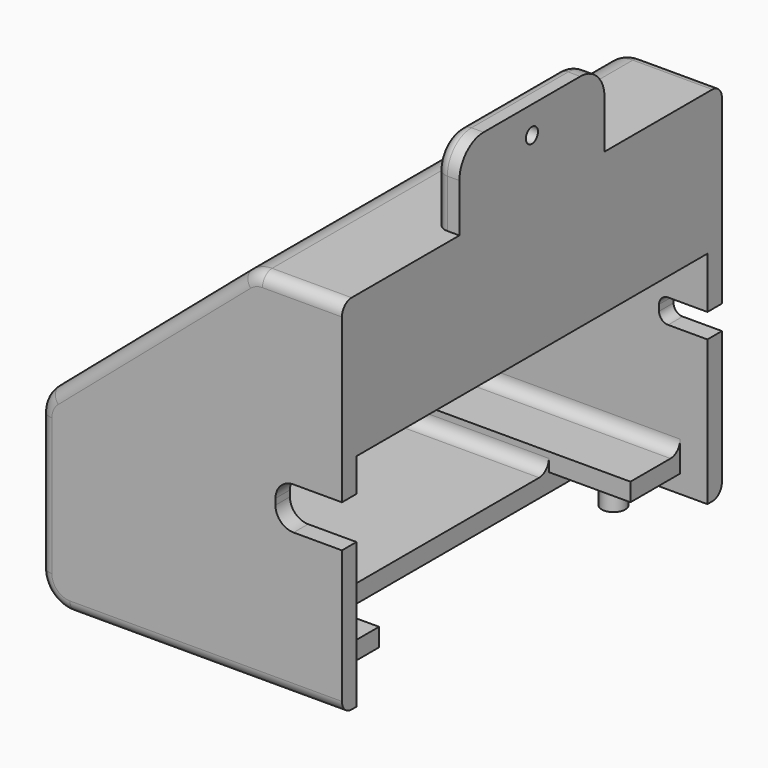
from build123d import *

# Parameters (mm, degrees)
F1_DEPTH  = 78.6
F4_DEPTH  = 72.6
F5_W      = 18
F5_H      = 72.6
F6_DEPTH  = 5
F8_DEPTH  = 5
F10_DEPTH = 5
F12_DEPTH = 13
F13_R     = 5
F14_R     = 2
F15_R     = 1.25
F16_DEPTH = 25
F17_W     = 10.3
F17_H     = 3
F18_DEPTH = 42.5
F20_R     = 1.95
F21_DEPTH = 4
F22_SIZE  = 2
F23_R     = 2


with BuildPart() as f1:
    # F0 (on Front) → F1 (new body)
    with BuildSketch(Plane.XZ):
        Polygon((-50, 0), (0, 0), (0, 60), (-15, 60), (-50, 30), align=None)
    extrude(amount=F1_DEPTH)

    # F3 (on offset) → F4 (cut)
    with BuildSketch(Plane.XZ.offset(3)):
        Polygon((-47, 3), (0, 3), (0, 36.5), (-3, 36.5), (-3, 57), (-13.8902277714, 57), (-47, 28.6201952326), align=None)
    extrude(amount=F4_DEPTH, mode=Mode.SUBTRACT)

    # F5 (on face) → F6 (cut)
    with BuildSketch(Plane(origin=(0, 0, 0), x_dir=(1, 0, 0), z_dir=(0, 0, -1))):
        with Locations((-9, 39.3)):
            Rectangle(F5_W, F5_H)
    extrude(amount=-F6_DEPTH, mode=Mode.SUBTRACT)

    # F7 (on Front) → F8 (cut)
    with BuildSketch(Plane.XZ):
        with BuildLine():
            Line((-6.5, 24), (0, 24))
            Line((0, 24), (0, 28))
            Line((0, 28), (-6.5, 28))
            ThreePointArc((-6.5, 28), (-7.5606601718, 27.5606601718), (-8, 26.5))
            Line((-8, 26.5), (-8, 25.5))
            ThreePointArc((-8, 25.5), (-7.5606601718, 24.4393398282), (-6.5, 24))
        make_face()
    extrude(amount=F8_DEPTH, mode=Mode.SUBTRACT)

    # F9 (on face) → F10 (cut)
    with BuildSketch(Plane.XZ.offset(78.6)):
        with BuildLine():
            Line((-8, 24), (0, 24))
            Line((0, 24), (0, 31))
            Line((0, 31), (-8, 31))
            ThreePointArc((-8, 31), (-10.1213203436, 30.1213203436), (-11, 28))
            Line((-11, 28), (-11, 27))
            ThreePointArc((-11, 27), (-10.1213203436, 24.8786796564), (-8, 24))
        make_face()
    extrude(amount=-F10_DEPTH, mode=Mode.SUBTRACT)

    # F11 (on face) → F12 (join)
    with BuildSketch(Plane.XY.offset(60)):
        Polygon((-4, -24.3), (-4, -39.3), (-4, -54.3), (0, -54.3), (0, -39.3), (0, -24.3), align=None)
    extrude(amount=F12_DEPTH)

    # F13
    f13_edges = [f1.edges().sort_by_distance(p)[0] for p in [
        (-2, -54.3, 73),
        (-2, -24.3, 73),
        (-15, -39.3, 60),
        (-50, -39.3, 30),
        (-50, -39.3, 0),
    ]]
    fillet(f13_edges, radius=F13_R)

    # F14
    f14_edges = [f1.edges().sort_by_distance(p)[0] for p in [
        (-4, -54.3, 64),
        (-32.329147, 0, 45.146446),
        (-32.329147, -78.6, 45.146446),
    ]]
    fillet(f14_edges, radius=F14_R)

    # F15 (on face) → F16 (cut)
    with BuildSketch(Plane.YZ):
        with Locations((-39.3, 68.5)):
            Circle(F15_R)
    extrude(amount=-F16_DEPTH, mode=Mode.SUBTRACT)

    # F17 (on face) → F18 (join)
    with BuildSketch(Plane.YZ.offset(-47)):
        with Locations((-8.15, 4.5)):
            Rectangle(F17_W, F17_H)
        with Locations((-70.45, 4.5)):
            Rectangle(F17_W, F17_H)
    extrude(amount=F18_DEPTH)

    # F20 (on offset) → F21 (join)
    with BuildSketch(Plane.XY.offset(3)):
        with Locations((-10.5, -9.3)):
            Circle(F20_R)
        with Locations((-10.5, -69.3)):
            Circle(F20_R)
    extrude(amount=-F21_DEPTH)

    # F22
    f22_edges = [f1.edges().sort_by_distance(p)[0] for p in [
        (-3, -39.3, 36.5),
    ]]
    chamfer(f22_edges, length=F22_SIZE)

    # F23
    f23_edges = [f1.edges().sort_by_distance(p)[0] for p in [
        (-47, -8.15, 6),
        (-47, -13.3, 4.5),
        (-32.5, -13.3, 3),
        (-47, -70.45, 6),
        (-47, -65.3, 4.5),
        (-32.5, -65.3, 3),
        (-25.75, -75.6, 6),
        (-25.75, -3, 6),
        (-47, -3, 17.310098),
        (-30.445114, -3, 42.810098),
        (-47, -39.3, 28.620195),
        (-47, -75.6, 17.310098),
        (-30.445114, -75.6, 42.810098),
        (-13.890228, -39.3, 57),
        (-8.445114, -3, 57),
        (-8.445114, -75.6, 57),
    ]]
    fillet(f23_edges, radius=F23_R)


solid = f1.part
